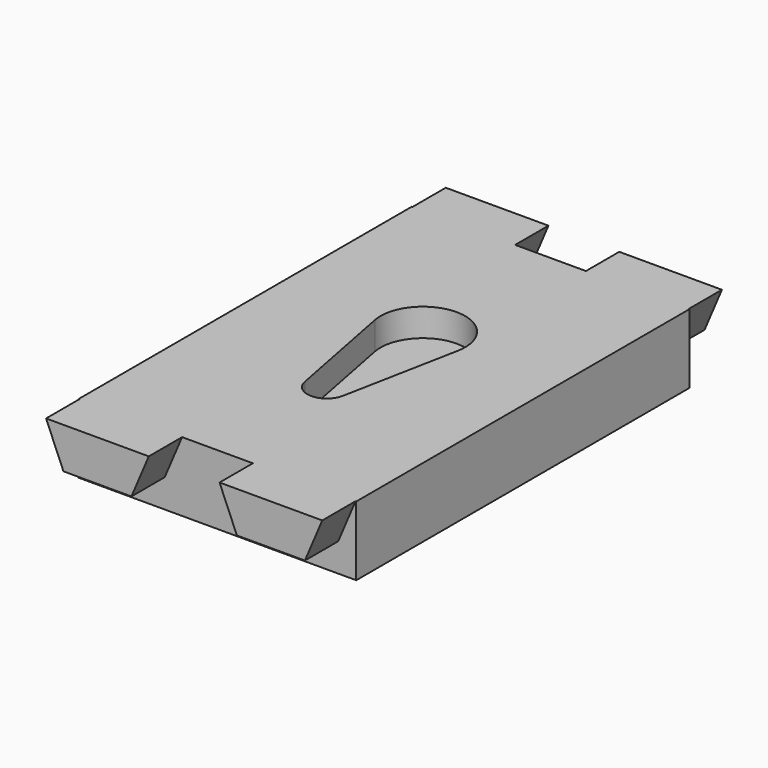
from build123d import *

# Parameters (mm, degrees)
SKETCH_W     = 40
SKETCH_H     = 60
PAD_DEPTH    = 10
PAD001_DEPTH = 6
PAD002_DEPTH = 6
POCKET_DEPTH = 4


with BuildPart() as part:
    # Sketch → Pad (new body)
    with BuildSketch(Plane.XY):
        with Locations((20, 30)):
            Rectangle(SKETCH_W, SKETCH_H)
    extrude(amount=PAD_DEPTH)

    # Sketch001 (on Face3 of Pad) → Pad001 (join)
    with BuildSketch(Plane.XZ):
        Polygon((0.1, 10), (14.9, 10), (12.4, 4.1), (2.6, 4.1), align=None)
        Polygon((25.1, 10), (39.9, 10), (37.4, 4.1), (27.6, 4.1), align=None)
    extrude(amount=PAD001_DEPTH)

    # Sketch002 (on Face1 of Pad001) → Pad002 (join)
    with BuildSketch(Plane(origin=(0, 60, 0), x_dir=(-1, 0, 0), z_dir=(0, 1, 0))):
        Polygon((-39.9, 10), (-25.1, 10), (-27.6, 4.1), (-37.4, 4.1), align=None)
        Polygon((-14.9, 10), (-0.1, 10), (-2.6, 4.1), (-12.4, 4.1), align=None)
    extrude(amount=PAD002_DEPTH)

    # Sketch003 (on Face4 of Pad002) → Pocket (cut)
    with BuildSketch(Plane.XY.offset(10)):
        with BuildLine():
            ThreePointArc((25.987994, 35.836416), (20, 43.1), (14.012006, 35.836416))
            Line((14.012006, 35.836416), (17.251413, 19.165896))
            ThreePointArc((17.251413, 19.165896), (20, 16.9), (22.748587, 19.165896))
            Line((25.987994, 35.836416), (22.748587, 19.165896))
        make_face()
    extrude(amount=-POCKET_DEPTH, mode=Mode.SUBTRACT)


solid = part.part
